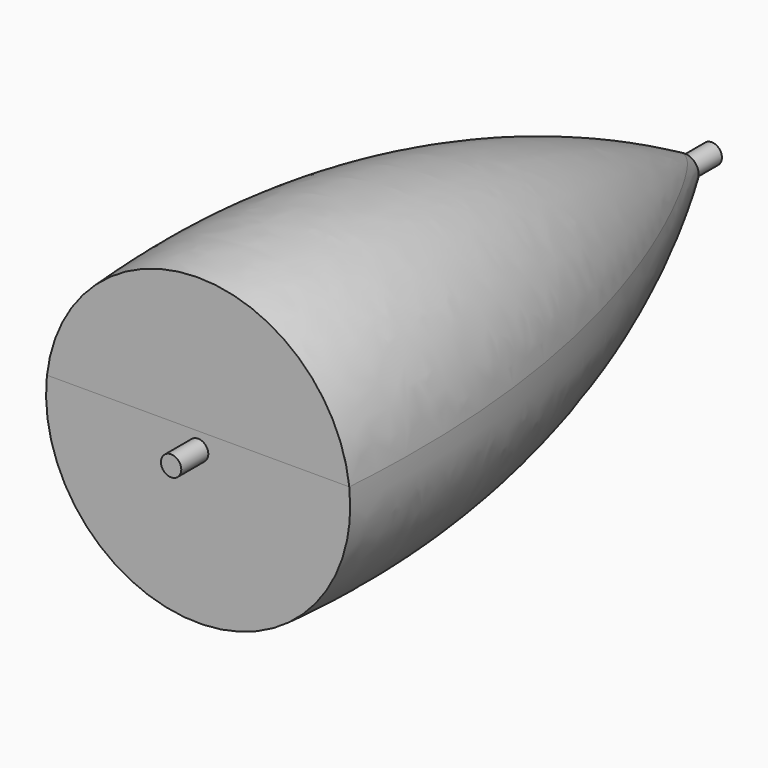
from build123d import *

# Parameters (mm, degrees)
SKETCH003_R       = 4.120219
SKETCH004_R       = 3.8086
SKETCH005_R       = 45
PAD_DEPTH         = 10
SKETCH006_R       = 3.009992
PAD002_DEPTH      = 100
FUSION_ROLL_ANGLE = 90
PAD003_DEPTH      = 12
BOX_W             = 50
BOX_H             = 200
BOX_DEPTH         = 100
BOX_PITCH_ANGLE   = -90
SKETCH_R          = 4.120219
SKETCH001_R       = 39
SKETCH002_R       = 45
SKETCH011_R       = 5
PAD007_DEPTH      = 50
SKETCH010_R       = 5
PAD006_DEPTH      = 50
SKETCH008_R       = 20.474388
PAD004_DEPTH      = 15
SKETCH009_R       = 12.730394
PAD005_DEPTH      = 15


with BuildPart() as obj1:
    # Sketch003 → Loft001 section 0
    with BuildSketch(Plane.XZ.offset(-90)):
        Circle(SKETCH003_R)
    # Sketch004 → Loft001 section 1
    with BuildSketch(Plane.XZ):
        Circle(SKETCH004_R)
    # Sketch005 → Loft001 section 2
    with BuildSketch(Plane.XZ.offset(90)):
        Circle(SKETCH005_R)
    loft()


with BuildPart() as pad:
    # InvoluteGear → Pad (new body)
    with BuildSketch(Plane.XY):
        with BuildLine():
            Line((13.925855, -1.716263), (15.913635, -1.959941))
            add(Edge.make_bspline(
                [(15.913635, -1.959941), (15.994501, -1.964874), (16.238179, -1.969799), (16.647193, -1.893238)],
                knots=[0, 0, 0, 0, 1, 1, 1, 1], degree=3))
            add(Edge.make_bspline(
                [(16.647193, -1.893238), (17.136473, -1.800024), (17.842605, -1.590654), (18.717945, -1.127762)],
                knots=[0, 0, 0, 0, 1, 1, 1, 1], degree=3))
            ThreePointArc((18.717945, -1.127762), (18.751891, 0), (18.717945, 1.127762))
            add(Edge.make_bspline(
                [(18.717945, 1.127762), (17.842605, 1.590654), (17.136473, 1.800024), (16.647193, 1.893238)],
                knots=[0, 0, 0, 0, 1, 1, 1, 1], degree=3))
            add(Edge.make_bspline(
                [(16.647193, 1.893238), (16.238179, 1.969799), (15.994501, 1.964874), (15.913635, 1.959941)],
                knots=[0, 0, 0, 0, 1, 1, 1, 1], degree=3))
            Line((15.913635, 1.959941), (13.925855, 1.716263))
            ThreePointArc((13.925855, 1.716263), (13.260086, 1.888302), (12.890802, 2.468367))
            ThreePointArc((12.890802, 2.468367), (12.743611, 3.141018), (12.561346, 3.805024))
            ThreePointArc((12.561346, 3.805024), (12.618761, 4.490261), (13.128319, 4.951993))
            Line((13.128319, 4.951993), (15.001654, 5.659993))
            add(Edge.make_bspline(
                [(15.001654, 5.659993), (15.075549, 5.693206), (15.293605, 5.802087), (15.620188, 6.059958)],
                knots=[0, 0, 0, 0, 1, 1, 1, 1], degree=3))
            add(Edge.make_bspline(
                [(15.620188, 6.059958), (16.010106, 6.369874), (16.538056, 6.883418), (17.098014, 7.700079)],
                knots=[0, 0, 0, 0, 1, 1, 1, 1], degree=3))
            ThreePointArc((17.098014, 7.700079), (16.603975, 8.714438), (16.04982, 9.697246))
            add(Edge.make_bspline(
                [(16.04982, 9.697246), (15.059628, 9.700326), (14.33708, 9.557558), (13.860526, 9.412715)],
                knots=[0, 0, 0, 0, 1, 1, 1, 1], degree=3))
            add(Edge.make_bspline(
                [(13.860526, 9.412715), (13.462782, 9.290429), (13.249304, 9.172824), (13.179994, 9.130877)],
                knots=[0, 0, 0, 0, 1, 1, 1, 1], degree=3))
            Line((13.179994, 9.130877), (11.533145, 7.991343))
            ThreePointArc((11.533145, 7.991343), (10.863686, 7.834278), (10.267131, 8.176285))
            ThreePointArc((10.267131, 8.176285), (9.824204, 8.703485), (9.354237, 9.20673))
            ThreePointArc((9.354237, 9.20673), (9.08663, 9.840159), (9.323244, 10.485806))
            Line((9.323244, 10.485806), (10.652975, 11.983291))
            add(Edge.make_bspline(
                [(10.652975, 11.983291), (10.702971, 12.04704), (10.84545, 12.244786), (11.014787, 12.624889)],
                knots=[0, 0, 0, 0, 1, 1, 1, 1], degree=3))
            add(Edge.make_bspline(
                [(11.014787, 12.624889), (11.216017, 13.08051), (11.444838, 13.780581), (11.561134, 14.763925)],
                knots=[0, 0, 0, 0, 1, 1, 1, 1], degree=3))
            ThreePointArc((11.561134, 14.763925), (10.652288, 15.432504), (9.704875, 16.045208))
            add(Edge.make_bspline(
                [(9.704875, 16.045208), (8.826672, 15.587771), (8.253235, 15.125571), (7.898579, 14.775852)],
                knots=[0, 0, 0, 0, 1, 1, 1, 1], degree=3))
            add(Edge.make_bspline(
                [(7.898579, 14.775852), (7.603224, 14.482733), (7.468852, 14.279391), (7.426975, 14.210038)],
                knots=[0, 0, 0, 0, 1, 1, 1, 1], degree=3))
            Line((7.426975, 14.210038), (6.498331, 12.435702))
            ThreePointArc((6.498331, 12.435702), (5.978545, 11.985515), (5.291384, 12.011115))
            ThreePointArc((5.291384, 12.011115), (4.654189, 12.272088), (4.004184, 12.499285))
            ThreePointArc((4.004184, 12.499285), (3.472861, 12.935796), (3.382325, 13.617447))
            Line((3.382325, 13.617447), (3.863828, 15.561362))
            add(Edge.make_bspline(
                [(3.863828, 15.561362), (3.878472, 15.641043), (3.912734, 15.882352), (3.886031, 16.297611)],
                knots=[0, 0, 0, 0, 1, 1, 1, 1], degree=3))
            add(Edge.make_bspline(
                [(3.886031, 16.297611), (3.852474, 16.79456), (3.729745, 17.52078), (3.375738, 18.445533)],
                knots=[0, 0, 0, 0, 1, 1, 1, 1], degree=3))
            ThreePointArc((3.375738, 18.445533), (2.260291, 18.615169), (1.13666, 18.717406))
            add(Edge.make_bspline(
                [(1.13666, 18.717406), (0.571632, 17.904244), (0.278674, 17.228498), (0.127164, 16.75402)],
                knots=[0, 0, 0, 0, 1, 1, 1, 1], degree=3))
            add(Edge.make_bspline(
                [(0.127164, 16.75402), (0.001859, 16.357218), (-0.022624, 16.114722), (-0.027475, 16.033851)],
                knots=[0, 0, 0, 0, 1, 1, 1, 1], degree=3))
            Line((-0.027475, 16.033851), (-0.025173, 14.031193))
            ThreePointArc((-0.025173, 14.031193), (-0.276208, 13.391015), (-0.896555, 13.094343))
            ThreePointArc((-0.896555, 13.094343), (-1.582044, 13.029304), (-2.263178, 12.928405))
            ThreePointArc((-2.263178, 12.928405), (-2.936498, 13.067997), (-3.333443, 13.629496))
            Line((-3.333443, 13.629496), (-3.810476, 15.574512))
            add(Edge.make_bspline(
                [(-3.810476, 15.574512), (-3.834539, 15.651872), (-3.916343, 15.881462), (-4.132968, 16.236747)],
                knots=[0, 0, 0, 0, 1, 1, 1, 1], degree=3))
            add(Edge.make_bspline(
                [(-4.132968, 16.236747), (-4.393625, 16.661178), (-4.839787, 17.247179), (-5.582999, 17.901492)],
                knots=[0, 0, 0, 0, 1, 1, 1, 1], degree=3))
            ThreePointArc((-5.582999, 17.901492), (-6.649512, 17.533323), (-7.69195, 17.101672))
            add(Edge.make_bspline(
                [(-7.69195, 17.101672), (-7.814362, 16.119072), (-7.759729, 15.384583), (-7.673384, 14.894044)],
                knots=[0, 0, 0, 0, 1, 1, 1, 1], degree=3))
            add(Edge.make_bspline(
                [(-7.673384, 14.894044), (-7.599932, 14.484461), (-7.508917, 14.258364), (-7.47563, 14.184502)],
                knots=[0, 0, 0, 0, 1, 1, 1, 1], degree=3))
            Line((-7.47563, 14.184502), (-6.54291, 12.412306))
            ThreePointArc((-6.54291, 12.412306), (-6.467685, 11.728795), (-6.879105, 11.177815))
            ThreePointArc((-6.879105, 11.177815), (-7.45585, 10.801663), (-8.012074, 10.395783))
            ThreePointArc((-8.012074, 10.395783), (-8.673141, 10.206478), (-9.28556, 10.519191))
            Line((-9.28556, 10.519191), (-10.611845, 12.019729))
            add(Edge.make_bspline(
                [(-10.611845, 12.019729), (-10.669103, 12.077045), (-10.848233, 12.242321), (-11.205154, 12.456239)],
                knots=[0, 0, 0, 0, 1, 1, 1, 1], degree=3))
            add(Edge.make_bspline(
                [(-11.205154, 12.456239), (-11.633197, 12.710921), (-12.300583, 13.022457), (-13.262738, 13.256435)],
                knots=[0, 0, 0, 0, 1, 1, 1, 1], degree=3))
            ThreePointArc((-13.262738, 13.256435), (-14.035992, 12.434804), (-14.758427, 11.568151))
            add(Edge.make_bspline(
                [(-14.758427, 11.568151), (-14.41018, 10.641214), (-14.020471, 10.016246), (-13.716051, 9.622022)],
                knots=[0, 0, 0, 0, 1, 1, 1, 1], degree=3))
            add(Edge.make_bspline(
                [(-13.716051, 9.622022), (-13.46067, 9.293489), (-13.275008, 9.135587), (-13.211208, 9.085655)],
                knots=[0, 0, 0, 0, 1, 1, 1, 1], degree=3))
            Line((-13.211208, 9.085655), (-11.561745, 7.949909))
            ThreePointArc((-11.561745, 7.949909), (-11.177493, 7.379649), (-11.285734, 6.700584))
            ThreePointArc((-11.285734, 6.700584), (-11.62161, 6.099492), (-11.9255, 5.481612))
            ThreePointArc((-11.9255, 5.481612), (-12.422872, 5.006778), (-13.110467, 4.999066))
            Line((-13.110467, 4.999066), (-14.982169, 5.711371))
            add(Edge.make_bspline(
                [(-14.982169, 5.711371), (-15.059504, 5.735513), (-15.294923, 5.798611), (-15.710374, 5.822157)],
                knots=[0, 0, 0, 0, 1, 1, 1, 1], degree=3))
            add(Edge.make_bspline(
                [(-15.710374, 5.822157), (-16.207744, 5.848745), (-16.943463, 5.814448), (-17.904144, 5.574489)],
                knots=[0, 0, 0, 0, 1, 1, 1, 1], degree=3))
            ThreePointArc((-17.904144, 5.574489), (-18.206995, 4.487621), (-18.443926, 3.384506))
            add(Edge.make_bspline(
                [(-18.443926, 3.384506), (-17.7048, 2.725582), (-17.069292, 2.353308), (-16.616537, 2.14571)],
                knots=[0, 0, 0, 0, 1, 1, 1, 1], degree=3))
            add(Edge.make_bspline(
                [(-16.616537, 2.14571), (-16.237731, 1.97349), (-15.999955, 1.919956), (-15.920258, 1.905393)],
                knots=[0, 0, 0, 0, 1, 1, 1, 1], degree=3))
            Line((-15.920258, 1.905393), (-13.931924, 1.666284))
            ThreePointArc((-13.931924, 1.666284), (-13.326673, 1.339915), (-13.106938, 0.68833))
            ThreePointArc((-13.106938, 0.68833), (-13.125, 0), (-13.106938, -0.68833))
            ThreePointArc((-13.106938, -0.68833), (-13.326673, -1.339915), (-13.931924, -1.666284))
            Line((-13.931924, -1.666284), (-15.920258, -1.905393))
            add(Edge.make_bspline(
                [(-15.920258, -1.905393), (-15.999955, -1.919956), (-16.237731, -1.97349), (-16.616537, -2.14571)],
                knots=[0, 0, 0, 0, 1, 1, 1, 1], degree=3))
            add(Edge.make_bspline(
                [(-16.616537, -2.14571), (-17.069292, -2.353308), (-17.7048, -2.725582), (-18.443926, -3.384506)],
                knots=[0, 0, 0, 0, 1, 1, 1, 1], degree=3))
            ThreePointArc((-18.443926, -3.384506), (-18.206995, -4.487621), (-17.904144, -5.574489))
            add(Edge.make_bspline(
                [(-17.904144, -5.574489), (-16.943463, -5.814448), (-16.207744, -5.848745), (-15.710374, -5.822157)],
                knots=[0, 0, 0, 0, 1, 1, 1, 1], degree=3))
            add(Edge.make_bspline(
                [(-15.710374, -5.822157), (-15.294923, -5.798611), (-15.059504, -5.735513), (-14.982169, -5.711371)],
                knots=[0, 0, 0, 0, 1, 1, 1, 1], degree=3))
            Line((-14.982169, -5.711371), (-13.110467, -4.999066))
            ThreePointArc((-13.110467, -4.999066), (-12.422872, -5.006778), (-11.9255, -5.481612))
            ThreePointArc((-11.9255, -5.481612), (-11.62161, -6.099492), (-11.285734, -6.700584))
            ThreePointArc((-11.285734, -6.700584), (-11.177493, -7.379649), (-11.561745, -7.949909))
            Line((-11.561745, -7.949909), (-13.211208, -9.085655))
            add(Edge.make_bspline(
                [(-13.211208, -9.085655), (-13.275008, -9.135587), (-13.46067, -9.293489), (-13.716051, -9.622022)],
                knots=[0, 0, 0, 0, 1, 1, 1, 1], degree=3))
            add(Edge.make_bspline(
                [(-13.716051, -9.622022), (-14.020471, -10.016246), (-14.41018, -10.641214), (-14.758427, -11.568151)],
                knots=[0, 0, 0, 0, 1, 1, 1, 1], degree=3))
            ThreePointArc((-14.758427, -11.568151), (-14.035992, -12.434804), (-13.262738, -13.256435))
            add(Edge.make_bspline(
                [(-13.262738, -13.256435), (-12.300583, -13.022457), (-11.633197, -12.710921), (-11.205154, -12.456239)],
                knots=[0, 0, 0, 0, 1, 1, 1, 1], degree=3))
            add(Edge.make_bspline(
                [(-11.205154, -12.456239), (-10.848233, -12.242321), (-10.669103, -12.077045), (-10.611845, -12.019729)],
                knots=[0, 0, 0, 0, 1, 1, 1, 1], degree=3))
            Line((-10.611845, -12.019729), (-9.28556, -10.519191))
            ThreePointArc((-9.28556, -10.519191), (-8.673141, -10.206478), (-8.012074, -10.395783))
            ThreePointArc((-8.012074, -10.395783), (-7.45585, -10.801663), (-6.879105, -11.177815))
            ThreePointArc((-6.879105, -11.177815), (-6.467685, -11.728795), (-6.54291, -12.412306))
            Line((-6.54291, -12.412306), (-7.47563, -14.184502))
            add(Edge.make_bspline(
                [(-7.47563, -14.184502), (-7.508917, -14.258364), (-7.599932, -14.484461), (-7.673384, -14.894044)],
                knots=[0, 0, 0, 0, 1, 1, 1, 1], degree=3))
            add(Edge.make_bspline(
                [(-7.673384, -14.894044), (-7.759729, -15.384583), (-7.814362, -16.119072), (-7.69195, -17.101672)],
                knots=[0, 0, 0, 0, 1, 1, 1, 1], degree=3))
            ThreePointArc((-7.69195, -17.101672), (-6.649512, -17.533323), (-5.582999, -17.901492))
            add(Edge.make_bspline(
                [(-5.582999, -17.901492), (-4.839787, -17.247179), (-4.393625, -16.661178), (-4.132968, -16.236747)],
                knots=[0, 0, 0, 0, 1, 1, 1, 1], degree=3))
            add(Edge.make_bspline(
                [(-4.132968, -16.236747), (-3.916343, -15.881462), (-3.834539, -15.651872), (-3.810476, -15.574512)],
                knots=[0, 0, 0, 0, 1, 1, 1, 1], degree=3))
            Line((-3.810476, -15.574512), (-3.333443, -13.629496))
            ThreePointArc((-3.333443, -13.629496), (-2.936498, -13.067997), (-2.263178, -12.928405))
            ThreePointArc((-2.263178, -12.928405), (-1.582044, -13.029304), (-0.896555, -13.094343))
            ThreePointArc((-0.896555, -13.094343), (-0.276208, -13.391015), (-0.025173, -14.031193))
            Line((-0.025173, -14.031193), (-0.027475, -16.033851))
            add(Edge.make_bspline(
                [(-0.027475, -16.033851), (-0.022624, -16.114722), (0.001859, -16.357218), (0.127164, -16.75402)],
                knots=[0, 0, 0, 0, 1, 1, 1, 1], degree=3))
            add(Edge.make_bspline(
                [(0.127164, -16.75402), (0.278674, -17.228498), (0.571632, -17.904244), (1.13666, -18.717406)],
                knots=[0, 0, 0, 0, 1, 1, 1, 1], degree=3))
            ThreePointArc((1.13666, -18.717406), (2.260291, -18.615169), (3.375738, -18.445533))
            add(Edge.make_bspline(
                [(3.375738, -18.445533), (3.729745, -17.52078), (3.852474, -16.79456), (3.886031, -16.297611)],
                knots=[0, 0, 0, 0, 1, 1, 1, 1], degree=3))
            add(Edge.make_bspline(
                [(3.886031, -16.297611), (3.912734, -15.882352), (3.878472, -15.641043), (3.863828, -15.561362)],
                knots=[0, 0, 0, 0, 1, 1, 1, 1], degree=3))
            Line((3.863828, -15.561362), (3.382325, -13.617447))
            ThreePointArc((3.382325, -13.617447), (3.472861, -12.935796), (4.004184, -12.499285))
            ThreePointArc((4.004184, -12.499285), (4.654189, -12.272088), (5.291384, -12.011115))
            ThreePointArc((5.291384, -12.011115), (5.978545, -11.985515), (6.498331, -12.435702))
            Line((6.498331, -12.435702), (7.426975, -14.210038))
            add(Edge.make_bspline(
                [(7.426975, -14.210038), (7.468852, -14.279391), (7.603224, -14.482733), (7.898579, -14.775852)],
                knots=[0, 0, 0, 0, 1, 1, 1, 1], degree=3))
            add(Edge.make_bspline(
                [(7.898579, -14.775852), (8.253235, -15.125571), (8.826672, -15.587771), (9.704875, -16.045208)],
                knots=[0, 0, 0, 0, 1, 1, 1, 1], degree=3))
            ThreePointArc((9.704875, -16.045208), (10.652288, -15.432504), (11.561134, -14.763925))
            add(Edge.make_bspline(
                [(11.561134, -14.763925), (11.444838, -13.780581), (11.216017, -13.08051), (11.014787, -12.624889)],
                knots=[0, 0, 0, 0, 1, 1, 1, 1], degree=3))
            add(Edge.make_bspline(
                [(11.014787, -12.624889), (10.84545, -12.244786), (10.702971, -12.04704), (10.652975, -11.983291)],
                knots=[0, 0, 0, 0, 1, 1, 1, 1], degree=3))
            Line((10.652975, -11.983291), (9.323244, -10.485806))
            ThreePointArc((9.323244, -10.485806), (9.08663, -9.840159), (9.354237, -9.20673))
            ThreePointArc((9.354237, -9.20673), (9.824204, -8.703485), (10.267131, -8.176285))
            ThreePointArc((10.267131, -8.176285), (10.863686, -7.834278), (11.533145, -7.991343))
            Line((11.533145, -7.991343), (13.179994, -9.130877))
            add(Edge.make_bspline(
                [(13.179994, -9.130877), (13.249304, -9.172824), (13.462782, -9.290429), (13.860526, -9.412715)],
                knots=[0, 0, 0, 0, 1, 1, 1, 1], degree=3))
            add(Edge.make_bspline(
                [(13.860526, -9.412715), (14.33708, -9.557558), (15.059628, -9.700326), (16.04982, -9.697246)],
                knots=[0, 0, 0, 0, 1, 1, 1, 1], degree=3))
            ThreePointArc((16.04982, -9.697246), (16.603975, -8.714438), (17.098014, -7.700079))
            add(Edge.make_bspline(
                [(17.098014, -7.700079), (16.538056, -6.883418), (16.010106, -6.369874), (15.620188, -6.059958)],
                knots=[0, 0, 0, 0, 1, 1, 1, 1], degree=3))
            add(Edge.make_bspline(
                [(15.620188, -6.059958), (15.293605, -5.802087), (15.075549, -5.693206), (15.001654, -5.659993)],
                knots=[0, 0, 0, 0, 1, 1, 1, 1], degree=3))
            Line((15.001654, -5.659993), (13.128319, -4.951993))
            ThreePointArc((13.128319, -4.951993), (12.618761, -4.490261), (12.561346, -3.805024))
            ThreePointArc((12.561346, -3.805024), (12.743611, -3.141018), (12.890802, -2.468367))
            ThreePointArc((12.890802, -2.468367), (13.260086, -1.888302), (13.925855, -1.716263))
        make_face()
    extrude(amount=PAD_DEPTH)


with BuildPart() as ingranaggio:
    # Sketch006 → Pad002 (new body, symmetric)
    with BuildSketch(Plane(origin=(0, 0, 0), x_dir=(1, 0, 0), z_dir=(0, 0, -1))):
        Circle(SKETCH006_R)
    extrude(amount=PAD002_DEPTH, both=True)

    # Fusion: union Pad
    add(pad.part)


with BuildPart() as ingranaggio_1:
    # Fusion roll: moved
    add(ingranaggio.part.rotate(Axis((0, 0, 0), (1, 0, 0)), FUSION_ROLL_ANGLE))


with BuildPart() as ingranaggio_2:
    # Fusion placement: moved
    add(ingranaggio_1.part)


with BuildPart() as obj2:
    # InvoluteGear001 → Pad003 (new body)
    with BuildSketch(Plane(origin=(25, 1, 0), x_dir=(1, 0, 0), z_dir=(0, -1, 0))):
        with BuildLine():
            Line((6.310098, -1.539532), (8.025933, -1.955522))
            add(Edge.make_bspline(
                [(8.025933, -1.955522), (8.122308, -1.969458), (8.410577, -1.993094), (8.905383, -1.878739)],
                knots=[0, 0, 0, 0, 1, 1, 1, 1], degree=3))
            add(Edge.make_bspline(
                [(8.905383, -1.878739), (9.488858, -1.736981), (10.305552, -1.402438), (11.237092, -0.634636)],
                knots=[0, 0, 0, 0, 1, 1, 1, 1], degree=3))
            ThreePointArc((11.237092, -0.634636), (11.255007, 0), (11.237092, 0.634636))
            add(Edge.make_bspline(
                [(11.237092, 0.634636), (10.305552, 1.402438), (9.488858, 1.736981), (8.905383, 1.878739)],
                knots=[0, 0, 0, 0, 1, 1, 1, 1], degree=3))
            add(Edge.make_bspline(
                [(8.905383, 1.878739), (8.410577, 1.993094), (8.122308, 1.969458), (8.025933, 1.955522)],
                knots=[0, 0, 0, 0, 1, 1, 1, 1], degree=3))
            Line((8.025933, 1.955522), (6.310098, 1.539532))
            ThreePointArc((6.310098, 1.539532), (5.663228, 1.614479), (5.221229, 2.092699))
            ThreePointArc((5.221229, 2.092699), (5.06795, 2.440596), (4.891521, 2.777345))
            ThreePointArc((4.891521, 2.777345), (4.793216, 3.421079), (5.137936, 3.973551))
            Line((5.137936, 3.973551), (6.532976, 5.055679))
            add(Edge.make_bspline(
                [(6.532976, 5.055679), (6.60396, 5.122339), (6.802173, 5.33298), (7.021273, 5.791135)],
                knots=[0, 0, 0, 0, 1, 1, 1, 1], degree=3))
            add(Edge.make_bspline(
                [(7.021273, 5.791135), (7.274232, 6.335698), (7.521877, 7.182799), (7.502391, 8.389823)],
                knots=[0, 0, 0, 0, 1, 1, 1, 1], degree=3))
            ThreePointArc((7.502391, 8.389823), (7.017382, 8.799519), (6.510034, 9.181202))
            add(Edge.make_bspline(
                [(6.510034, 9.181202), (5.328936, 8.931611), (4.55818, 8.501678), (4.083559, 8.133883)],
                knots=[0, 0, 0, 0, 1, 1, 1, 1], degree=3))
            add(Edge.make_bspline(
                [(4.083559, 8.133883), (3.685645, 7.818327), (3.524392, 7.578213), (3.475198, 7.494175)],
                knots=[0, 0, 0, 0, 1, 1, 1, 1], degree=3))
            Line((3.475198, 7.494175), (2.730628, 5.893316))
            ThreePointArc((2.730628, 5.893316), (2.268715, 5.434301), (1.619245, 5.386898))
            ThreePointArc((1.619245, 5.386898), (1.25168, 5.48397), (0.878398, 5.555991))
            ThreePointArc((0.878398, 5.555991), (0.313814, 5.880495), (0.096803, 6.494469))
            Line((0.096803, 6.494469), (0.120555, 8.259851))
            add(Edge.make_bspline(
                [(0.120555, 8.259851), (0.112696, 8.356911), (0.071594, 8.643211), (-0.149999, 9.100165)],
                knots=[0, 0, 0, 0, 1, 1, 1, 1], degree=3))
            add(Edge.make_bspline(
                [(-0.149999, 9.100165), (-0.418038, 9.637467), (-0.925925, 10.359242), (-1.881764, 11.096575)],
                knots=[0, 0, 0, 0, 1, 1, 1, 1], degree=3))
            ThreePointArc((-1.881764, 11.096575), (-2.504475, 10.972821), (-3.119213, 10.814135))
            add(Edge.make_bspline(
                [(-3.119213, 10.814135), (-3.660477, 9.735098), (-3.804901, 8.864438), (-3.813269, 8.264048)],
                knots=[0, 0, 0, 0, 1, 1, 1, 1], degree=3))
            add(Edge.make_bspline(
                [(-3.813269, 8.264048), (-3.814652, 7.756201), (-3.727463, 7.480419), (-3.692431, 7.389561)],
                knots=[0, 0, 0, 0, 1, 1, 1, 1], degree=3))
            Line((-3.692431, 7.389561), (-2.905061, 5.809313))
            ThreePointArc((-2.905061, 5.809313), (-2.834187, 5.161984), (-3.202064, 4.624653))
            ThreePointArc((-3.202064, 4.624653), (-3.50713, 4.397802), (-3.796177, 4.150863))
            ThreePointArc((-3.796177, 4.150863), (-4.401896, 3.911778), (-5.017225, 4.124919))
            Line((-5.017225, 4.124919), (-6.382646, 5.244186))
            add(Edge.make_bspline(
                [(-6.382646, 5.244186), (-6.463431, 5.298558), (-6.712897, 5.444928), (-7.208319, 5.556586)],
                knots=[0, 0, 0, 0, 1, 1, 1, 1], degree=3))
            add(Edge.make_bspline(
                [(-7.208319, 5.556586), (-7.795518, 5.682027), (-8.676486, 5.734964), (-9.848912, 5.447379)],
                knots=[0, 0, 0, 0, 1, 1, 1, 1], degree=3))
            ThreePointArc((-9.848912, 5.447379), (-10.140411, 4.883365), (-10.399629, 4.303804))
            add(Edge.make_bspline(
                [(-10.399629, 4.303804), (-9.893476, 3.207858), (-9.302813, 2.552095), (-8.838627, 2.171216)],
                knots=[0, 0, 0, 0, 1, 1, 1, 1], degree=3))
            add(Edge.make_bspline(
                [(-8.838627, 2.171216), (-8.442439, 1.853497), (-8.172463, 1.749717), (-8.079585, 1.720457)],
                knots=[0, 0, 0, 0, 1, 1, 1, 1], degree=3))
            Line((-8.079585, 1.720457), (-6.35318, 1.350779))
            ThreePointArc((-6.35318, 1.350779), (-5.802889, 1.002587), (-5.612153, 0.379949))
            ThreePointArc((-5.612153, 0.379949), (-5.625, 0), (-5.612153, -0.379949))
            ThreePointArc((-5.612153, -0.379949), (-5.802889, -1.002587), (-6.35318, -1.350779))
            Line((-6.35318, -1.350779), (-8.079585, -1.720457))
            add(Edge.make_bspline(
                [(-8.079585, -1.720457), (-8.172463, -1.749717), (-8.442439, -1.853497), (-8.838627, -2.171216)],
                knots=[0, 0, 0, 0, 1, 1, 1, 1], degree=3))
            add(Edge.make_bspline(
                [(-8.838627, -2.171216), (-9.302813, -2.552095), (-9.893476, -3.207858), (-10.399629, -4.303804)],
                knots=[0, 0, 0, 0, 1, 1, 1, 1], degree=3))
            ThreePointArc((-10.399629, -4.303804), (-10.140411, -4.883365), (-9.848912, -5.447379))
            add(Edge.make_bspline(
                [(-9.848912, -5.447379), (-8.676486, -5.734964), (-7.795518, -5.682027), (-7.208319, -5.556586)],
                knots=[0, 0, 0, 0, 1, 1, 1, 1], degree=3))
            add(Edge.make_bspline(
                [(-7.208319, -5.556586), (-6.712897, -5.444928), (-6.463431, -5.298558), (-6.382646, -5.244186)],
                knots=[0, 0, 0, 0, 1, 1, 1, 1], degree=3))
            Line((-6.382646, -5.244186), (-5.017225, -4.124919))
            ThreePointArc((-5.017225, -4.124919), (-4.401896, -3.911778), (-3.796177, -4.150863))
            ThreePointArc((-3.796177, -4.150863), (-3.50713, -4.397802), (-3.202064, -4.624653))
            ThreePointArc((-3.202064, -4.624653), (-2.834187, -5.161984), (-2.905061, -5.809313))
            Line((-2.905061, -5.809313), (-3.692431, -7.389561))
            add(Edge.make_bspline(
                [(-3.692431, -7.389561), (-3.727463, -7.480419), (-3.814652, -7.756201), (-3.813269, -8.264048)],
                knots=[0, 0, 0, 0, 1, 1, 1, 1], degree=3))
            add(Edge.make_bspline(
                [(-3.813269, -8.264048), (-3.804901, -8.864438), (-3.660477, -9.735098), (-3.119213, -10.814135)],
                knots=[0, 0, 0, 0, 1, 1, 1, 1], degree=3))
            ThreePointArc((-3.119213, -10.814135), (-2.504475, -10.972821), (-1.881764, -11.096575))
            add(Edge.make_bspline(
                [(-1.881764, -11.096575), (-0.925925, -10.359242), (-0.418038, -9.637467), (-0.149999, -9.100165)],
                knots=[0, 0, 0, 0, 1, 1, 1, 1], degree=3))
            add(Edge.make_bspline(
                [(-0.149999, -9.100165), (0.071594, -8.643211), (0.112696, -8.356911), (0.120555, -8.259851)],
                knots=[0, 0, 0, 0, 1, 1, 1, 1], degree=3))
            Line((0.120555, -8.259851), (0.096803, -6.494469))
            ThreePointArc((0.096803, -6.494469), (0.313814, -5.880495), (0.878398, -5.555991))
            ThreePointArc((0.878398, -5.555991), (1.25168, -5.48397), (1.619245, -5.386898))
            ThreePointArc((1.619245, -5.386898), (2.268715, -5.434301), (2.730628, -5.893316))
            Line((2.730628, -5.893316), (3.475198, -7.494175))
            add(Edge.make_bspline(
                [(3.475198, -7.494175), (3.524392, -7.578213), (3.685645, -7.818327), (4.083559, -8.133883)],
                knots=[0, 0, 0, 0, 1, 1, 1, 1], degree=3))
            add(Edge.make_bspline(
                [(4.083559, -8.133883), (4.55818, -8.501678), (5.328936, -8.931611), (6.510034, -9.181202)],
                knots=[0, 0, 0, 0, 1, 1, 1, 1], degree=3))
            ThreePointArc((6.510034, -9.181202), (7.017382, -8.799519), (7.502391, -8.389823))
            add(Edge.make_bspline(
                [(7.502391, -8.389823), (7.521877, -7.182799), (7.274232, -6.335698), (7.021273, -5.791135)],
                knots=[0, 0, 0, 0, 1, 1, 1, 1], degree=3))
            add(Edge.make_bspline(
                [(7.021273, -5.791135), (6.802173, -5.33298), (6.60396, -5.122339), (6.532976, -5.055679)],
                knots=[0, 0, 0, 0, 1, 1, 1, 1], degree=3))
            Line((6.532976, -5.055679), (5.137936, -3.973551))
            ThreePointArc((5.137936, -3.973551), (4.793216, -3.421079), (4.891521, -2.777345))
            ThreePointArc((4.891521, -2.777345), (5.06795, -2.440596), (5.221229, -2.092699))
            ThreePointArc((5.221229, -2.092699), (5.663228, -1.614479), (6.310098, -1.539532))
        make_face()
    extrude(amount=PAD003_DEPTH)


with BuildPart() as cubo:
    # Box → Box (new body)
    with BuildSketch(Plane.XY):
        with Locations((25, 100)):
            Rectangle(BOX_W, BOX_H)
    extrude(amount=BOX_DEPTH)


with BuildPart() as cubo_1:
    # Box pitch: moved
    add(cubo.part.rotate(Axis((0, 0, 0), (0, 1, 0)), BOX_PITCH_ANGLE))


with BuildPart() as cubo_2:
    # Box placement: moved
    add(cubo_1.part.moved(Location((50, -100, 5))))


with BuildPart() as obj3:
    # Sketch → Loft section 0
    with BuildSketch(Plane.XZ.offset(-90)):
        Circle(SKETCH_R)
    # Sketch001 → Loft section 1
    with BuildSketch(Plane.XZ):
        Circle(SKETCH001_R)
    # Sketch002 → Loft section 2
    with BuildSketch(Plane.XZ.offset(90)):
        Circle(SKETCH002_R)
    loft()


with BuildPart() as obj4:
    # Common base: copy of obj3
    add(obj3.part)

    # Common: intersect Cubo
    add(cubo_2.part, mode=Mode.INTERSECT)


with BuildPart() as corpo:
    # Cut base: copy of obj3
    add(obj3.part)

    # Cut: cut Cubo
    add(cubo_2.part, mode=Mode.SUBTRACT)


with BuildPart() as pad007:
    # Sketch011 → Pad007 (new body)
    with BuildSketch(Plane.XZ.offset(-75)):
        Circle(SKETCH011_R)
    extrude(amount=PAD007_DEPTH)


with BuildPart() as scassi_perno:
    # Sketch010 → Pad006 (new body)
    with BuildSketch(Plane.XZ.offset(25)):
        Circle(SKETCH010_R)
    extrude(amount=PAD006_DEPTH)

    # Fusion002: union Pad007
    add(pad007.part)


with BuildPart() as scasso_ruota_dentata:
    # Sketch008 → Pad004 (new body)
    with BuildSketch(Plane.XZ.offset(-3)):
        Circle(SKETCH008_R)
    extrude(amount=PAD004_DEPTH)


with BuildPart() as scassi_tutti:
    # Sketch009 → Pad005 (new body)
    with BuildSketch(Plane.XZ.offset(-3)):
        with Locations((25.012011, -0.123199)):
            Circle(SKETCH009_R)
    extrude(amount=PAD005_DEPTH)

    # Fusion001: union scasso_ruota_dentata
    add(scasso_ruota_dentata.part)

    # Fusion003: union scassi_perno
    add(scassi_perno.part)


solid = Compound([obj1.part, ingranaggio_2.part, obj2.part, obj4.part, corpo.part, scassi_tutti.part])
